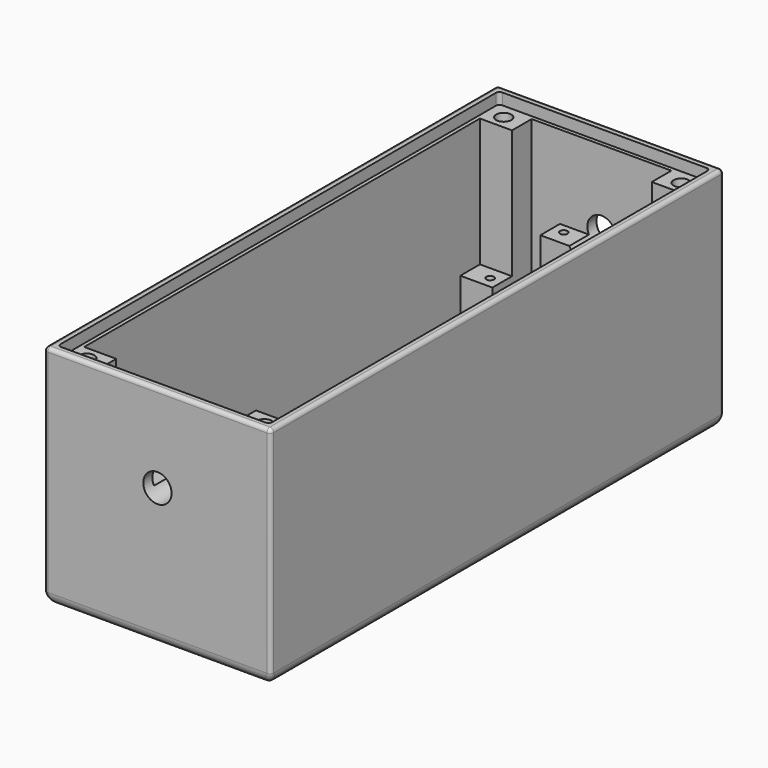
from build123d import *

# Parameters (mm, degrees)
SKETCH_W               = 60
SKETCH_H               = 150
PAD_DEPTH              = 60
SKETCH001_W            = 54
SKETCH001_H            = 144
POCKET_DEPTH           = 57
SKETCH002_W            = 8.5
SKETCH002_H            = 13
PAD001_DEPTH           = 20
SKETCH003_R            = 1
POCKET001_DEPTH        = 11
SKETCH004_W            = 8.5
SKETCH004_H            = 6.5
PAD002_DEPTH           = 34
SKETCH005_R            = 2
POCKET002_DEPTH        = 5
SKETCH006_W            = 56
SKETCH006_H            = 146
POCKET003_DEPTH        = 3
SKETCH007_W            = 22
SKETCH007_H            = 6.5
PAD003_DEPTH           = 32
SKETCH008_R            = 1
POCKET004_DEPTH        = 8
SKETCH009_R            = 3.75
POCKET005_DEPTH        = 10
SKETCH010_R            = 3.75
POCKET006_DEPTH        = 10
SKETCH011_W            = 20
SKETCH011_H            = 2
POCKET007_DEPTH        = 3
LINEARPATTERN_COUNT    = 7
LINEARPATTERN_PITCH    = 8.333333
LINEARPATTERN001_COUNT = 7
LINEARPATTERN001_PITCH = 8.333333
CHAMFER_SIZE           = 2
FILLET_R               = 1
FILLET001_R            = 3
FILLET002_R            = 1


with BuildPart() as part:
    # Sketch → Pad (new body)
    with BuildSketch(Plane.XY):
        Rectangle(SKETCH_W, SKETCH_H)
    extrude(amount=PAD_DEPTH)

    # Sketch001 (on Face6 of Pad) → Pocket (cut)
    with BuildSketch(Plane.XY.offset(60)):
        Rectangle(SKETCH001_W, SKETCH001_H)
    extrude(amount=-POCKET_DEPTH, mode=Mode.SUBTRACT)

    # Sketch002 (on Face11 of Pocket) → Pad001 (join)
    with BuildSketch(Plane.XY.offset(3)):
        with Locations((22.75, 65.5)):
            Rectangle(SKETCH002_W, SKETCH002_H)
        with Locations((22.75, -65.5)):
            Rectangle(SKETCH002_W, SKETCH002_H)
        with Locations((-22.75, -65.5)):
            Rectangle(SKETCH002_W, SKETCH002_H)
        with Locations((-22.75, 65.5)):
            Rectangle(SKETCH002_W, SKETCH002_H)
    extrude(amount=PAD001_DEPTH)

    # Sketch003 (on Face15 of Pad001) → Pocket001 (cut)
    with BuildSketch(Plane.XY.offset(23)):
        with Locations((-21.5, 62)):
            Circle(SKETCH003_R)
        with Locations((21.5, 62)):
            Circle(SKETCH003_R)
        with Locations((-21.5, -62)):
            Circle(SKETCH003_R)
        with Locations((21.5, -62)):
            Circle(SKETCH003_R)
    extrude(amount=-POCKET001_DEPTH, mode=Mode.SUBTRACT)

    # Sketch004 (on Face15 of Pocket001) → Pad002 (join)
    with BuildSketch(Plane.XY.offset(23)):
        with Locations((-22.75, 68.75)):
            Rectangle(SKETCH004_W, SKETCH004_H)
        with Locations((22.75, 68.75)):
            Rectangle(SKETCH004_W, SKETCH004_H)
        with Locations((-22.75, -68.75)):
            Rectangle(SKETCH004_W, SKETCH004_H)
        with Locations((22.75, -68.75)):
            Rectangle(SKETCH004_W, SKETCH004_H)
    extrude(amount=PAD002_DEPTH)

    # Sketch005 (on Face17 of Pad002) → Pocket002 (cut)
    with BuildSketch(Plane.XY.offset(57)):
        with Locations((-23.5, 69)):
            Circle(SKETCH005_R)
        with Locations((23.5, 69)):
            Circle(SKETCH005_R)
        with Locations((23.5, -69)):
            Circle(SKETCH005_R)
        with Locations((-23.5, -69)):
            Circle(SKETCH005_R)
    extrude(amount=-POCKET002_DEPTH, mode=Mode.SUBTRACT)

    # Sketch006 (on Face5 of Pocket002) → Pocket003 (cut)
    with BuildSketch(Plane.XY.offset(60)):
        Rectangle(SKETCH006_W, SKETCH006_H)
    extrude(amount=-POCKET003_DEPTH, mode=Mode.SUBTRACT)

    # Sketch007 (on Face26 of Pocket003) → Pad003 (join)
    with BuildSketch(Plane.XY.offset(3)):
        with Locations((0, 68.75)):
            Rectangle(SKETCH007_W, SKETCH007_H)
        with Locations((0, -68.75)):
            Rectangle(SKETCH007_W, SKETCH007_H)
    extrude(amount=PAD003_DEPTH)

    # Sketch008 (on Face48 of Pad003) → Pocket004 (cut)
    with BuildSketch(Plane.XY.offset(35)):
        with Locations((-8, 69.5)):
            Circle(SKETCH008_R)
        with Locations((8, 69.5)):
            Circle(SKETCH008_R)
        with Locations((-8, -69.5)):
            Circle(SKETCH008_R)
        with Locations((8, -69.5)):
            Circle(SKETCH008_R)
    extrude(amount=-POCKET004_DEPTH, mode=Mode.SUBTRACT)

    # Sketch009 (on Face6 of Pocket004) → Pocket005 (cut)
    with BuildSketch(Plane.XZ.offset(75)):
        with Locations((0, 36.75)):
            Circle(SKETCH009_R)
    extrude(amount=-POCKET005_DEPTH, mode=Mode.SUBTRACT)

    # Sketch010 (on Face1 of Pocket005) → Pocket006 (cut)
    with BuildSketch(Plane(origin=(0, 75, 0), x_dir=(-1, 0, 0), z_dir=(0, 1, 0))):
        with Locations((0, 36.75)):
            Circle(SKETCH010_R)
    extrude(amount=-POCKET006_DEPTH, mode=Mode.SUBTRACT)

    # Sketch011 (on Face3 of Pocket006) → Pocket007 (cut)
    with BuildSketch(Plane(origin=(0, 0, 0), x_dir=(1, 0, 0), z_dir=(0, 0, -1))):
        with Locations((-12, 0)):
            Rectangle(SKETCH011_W, SKETCH011_H)
        with Locations((12, 0)):
            Rectangle(SKETCH011_W, SKETCH011_H)
    pocket007 = extrude(amount=-POCKET007_DEPTH, mode=Mode.SUBTRACT)

    # LinearPattern: Pocket007 ×7
    with Locations(*[(0, i * LINEARPATTERN_PITCH, 0) for i in range(1, LINEARPATTERN_COUNT)]):
        add(pocket007, mode=Mode.SUBTRACT)

    # LinearPattern001: Pocket007 ×7
    with Locations(*[(0, -i * LINEARPATTERN001_PITCH, 0) for i in range(1, LINEARPATTERN001_COUNT)]):
        add(pocket007, mode=Mode.SUBTRACT)

    # Chamfer
    chamfer_edges = [part.edges().sort_by_distance(p)[0] for p in [
        (-27, 0, 3),
        (27, 0, 3),
        (-14.75, 72, 3),
        (14.75, 72, 3),
        (-14.75, -72, 3),
        (14.75, -72, 3),
    ]]
    chamfer(chamfer_edges, length=CHAMFER_SIZE)

    # Fillet
    fillet_edges = [part.edges().sort_by_distance(p)[0] for p in [
        (-30, 75, 30),
        (30, 75, 30),
        (0, 75, 60),
        (-30, -75, 30),
        (30, -75, 30),
        (0, -75, 60),
        (-30, 0, 60),
        (30, 0, 60),
    ]]
    fillet(fillet_edges, radius=FILLET_R)

    # Fillet001
    fillet001_edges = [part.edges().sort_by_distance(p)[0] for p in [
        (0, -75, 0),
        (-30, 0, 0),
        (30, 0, 0),
        (0, 75, 0),
    ]]
    fillet(fillet001_edges, radius=FILLET001_R)

    # Fillet002
    fillet002_edges = [part.edges().sort_by_distance(p)[0] for p in [
        (28, -73, 58.5),
        (-28, -73, 58.5),
        (28, 73, 58.5),
        (-28, 73, 58.5),
    ]]
    fillet(fillet002_edges, radius=FILLET002_R)


solid = part.part
